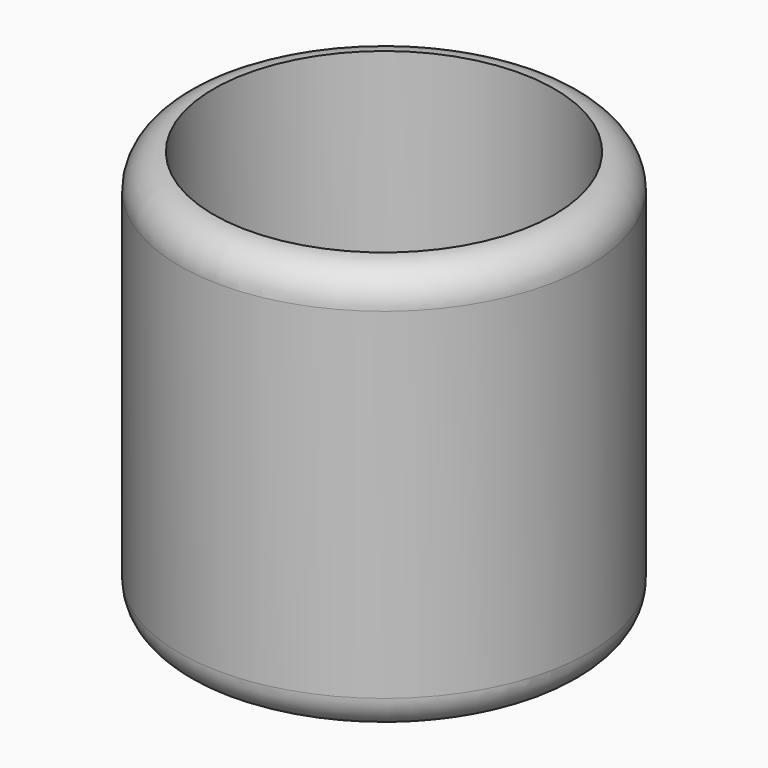
from build123d import *

# Parameters (mm, degrees)
F0_R     = 38.1
F1_DEPTH = 76.2
F2_R     = 6.35
F3_R     = 31.75
F4_DEPTH = 63.5
F5_R     = 6.35


with BuildPart() as f1:
    # F0 (on Top) → F1 (new body)
    with BuildSketch(Plane.XY):
        Circle(F0_R)
    extrude(amount=F1_DEPTH)

    # F2
    f2_edges = [f1.edges().sort_by_distance(p)[0] for p in [
        (-38.1, 0, 76.2),
        (-38.1, 0, 0),
    ]]
    fillet(f2_edges, radius=F2_R)

    # F3 (on face) → F4 (cut)
    with BuildSketch(Plane.XY.offset(76.2)):
        Circle(F3_R)
    extrude(amount=-F4_DEPTH, mode=Mode.SUBTRACT)

    # F5
    f5_edges = [f1.edges().sort_by_distance(p)[0] for p in [
        (-31.75, 0, 12.7),
    ]]
    fillet(f5_edges, radius=F5_R)


solid = f1.part
